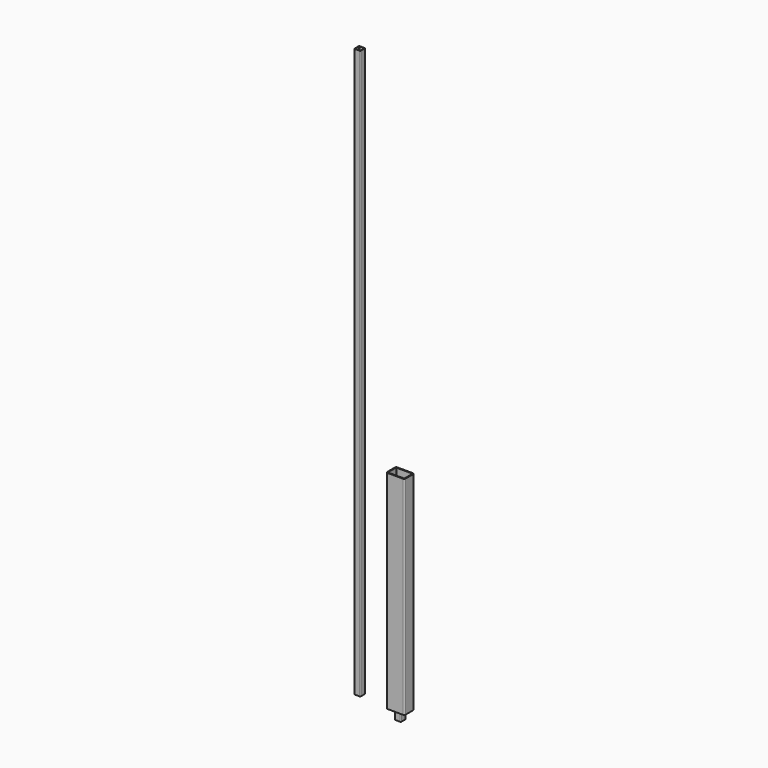
from build123d import *

# Parameters (mm, degrees)
F1_DEPTH = 680
F3_DEPTH = 1860
F5_DEPTH = 100
F7_DEPTH = 30


with BuildPart() as f1:
    # F0 (on Top) → F1 (new body)
    with BuildSketch(Plane.XY):
        with BuildLine():
            ThreePointArc((30, 15), (28.535534, 18.535534), (25, 20))
            Line((25, 20), (-25, 20))
            ThreePointArc((-25, 20), (-28.535534, 18.535534), (-30, 15))
            Line((-30, 15), (-30, -15))
            ThreePointArc((-30, -15), (-28.535534, -18.535534), (-25, -20))
            Line((-25, -20), (25, -20))
            ThreePointArc((25, -20), (28.535534, -18.535534), (30, -15))
            Line((30, -15), (30, 15))
        make_face()
        with BuildLine():
            Line((-25, 17), (25, 17))
            ThreePointArc((25, 17), (26.414214, 16.414214), (27, 15))
            Line((27, 15), (27, -15))
            ThreePointArc((27, -15), (26.414214, -16.414214), (25, -17))
            Line((25, -17), (-25, -17))
            ThreePointArc((-25, -17), (-26.414214, -16.414214), (-27, -15))
            Line((-27, -15), (-27, 15))
            ThreePointArc((-27, 15), (-26.414214, 16.414214), (-25, 17))
        make_face(mode=Mode.SUBTRACT)
    extrude(amount=F1_DEPTH)


with BuildPart() as f3:
    # F2 (on Top) → F3 (new body)
    with BuildSketch(Plane.XY):
        with BuildLine():
            ThreePointArc((-122.490022, 8), (-123.075808, 9.414214), (-124.490022, 10))
            Line((-124.490022, 10), (-140.490022, 10))
            ThreePointArc((-140.490022, 10), (-141.904235, 9.414214), (-142.490022, 8))
            Line((-142.490022, 8), (-142.490022, -8))
            ThreePointArc((-142.490022, -8), (-141.904235, -9.414214), (-140.490022, -10))
            Line((-140.490022, -10), (-124.490022, -10))
            ThreePointArc((-124.490022, -10), (-123.075808, -9.414214), (-122.490022, -8))
            Line((-122.490022, -8), (-122.490022, 8))
        make_face()
        with BuildLine():
            Line((-140.490022, 9), (-124.490022, 9))
            ThreePointArc((-124.490022, 9), (-123.782915, 8.707107), (-123.490022, 8))
            Line((-123.490022, 8), (-123.490022, -8))
            ThreePointArc((-123.490022, -8), (-123.782915, -8.707107), (-124.490022, -9))
            Line((-124.490022, -9), (-140.490022, -9))
            ThreePointArc((-140.490022, -9), (-141.197129, -8.707107), (-141.490022, -8))
            Line((-141.490022, -8), (-141.490022, 8))
            ThreePointArc((-141.490022, 8), (-141.197129, 8.707107), (-140.490022, 9))
        make_face(mode=Mode.SUBTRACT)
    extrude(amount=F3_DEPTH)


with BuildPart() as f5:
    # F4 (on Top) → F5 (new body)
    with BuildSketch(Plane.XY):
        with BuildLine():
            ThreePointArc((10, 8), (9.414214, 9.414214), (8, 10))
            Line((8, 10), (-8, 10))
            ThreePointArc((-8, 10), (-9.414214, 9.414214), (-10, 8))
            Line((-10, 8), (-10, -8))
            ThreePointArc((-10, -8), (-9.414214, -9.414214), (-8, -10))
            Line((-8, -10), (8, -10))
            ThreePointArc((8, -10), (9.414214, -9.414214), (10, -8))
            Line((10, -8), (10, 8))
        make_face()
        with BuildLine():
            Line((-8, 9), (8, 9))
            ThreePointArc((8, 9), (8.707107, 8.707107), (9, 8))
            Line((9, 8), (9, -8))
            ThreePointArc((9, -8), (8.707107, -8.707107), (8, -9))
            Line((8, -9), (-8, -9))
            ThreePointArc((-8, -9), (-8.707107, -8.707107), (-9, -8))
            Line((-9, -8), (-9, 8))
            ThreePointArc((-9, 8), (-8.707107, 8.707107), (-8, 9))
        make_face(mode=Mode.SUBTRACT)
    extrude(amount=F5_DEPTH)


with BuildPart() as f7:
    # F6 (on Top) → F7 (new body)
    with BuildSketch(Plane.XY):
        with BuildLine():
            Line((-8, -10), (8, -10))
            ThreePointArc((8, -10), (9.414214, -9.414214), (10, -8))
            Line((10, -8), (10, 8))
            ThreePointArc((10, 8), (9.414214, 9.414214), (8, 10))
            Line((8, 10), (-8, 10))
            ThreePointArc((-8, 10), (-9.414214, 9.414214), (-10, 8))
            Line((-10, 8), (-10, -8))
            ThreePointArc((-10, -8), (-9.414214, -9.414214), (-8, -10))
        make_face()
        with BuildLine():
            Line((-9, -8), (-9, 8))
            ThreePointArc((-9, 8), (-8.707107, 8.707107), (-8, 9))
            Line((-8, 9), (8, 9))
            ThreePointArc((8, 9), (8.707107, 8.707107), (9, 8))
            Line((9, 8), (9, -8))
            ThreePointArc((9, -8), (8.707107, -8.707107), (8, -9))
            Line((8, -9), (-8, -9))
            ThreePointArc((-8, -9), (-8.707107, -8.707107), (-9, -8))
        make_face(mode=Mode.SUBTRACT)
    extrude(amount=-F7_DEPTH)


solid = Compound([f1.part, f3.part, f5.part, f7.part])
